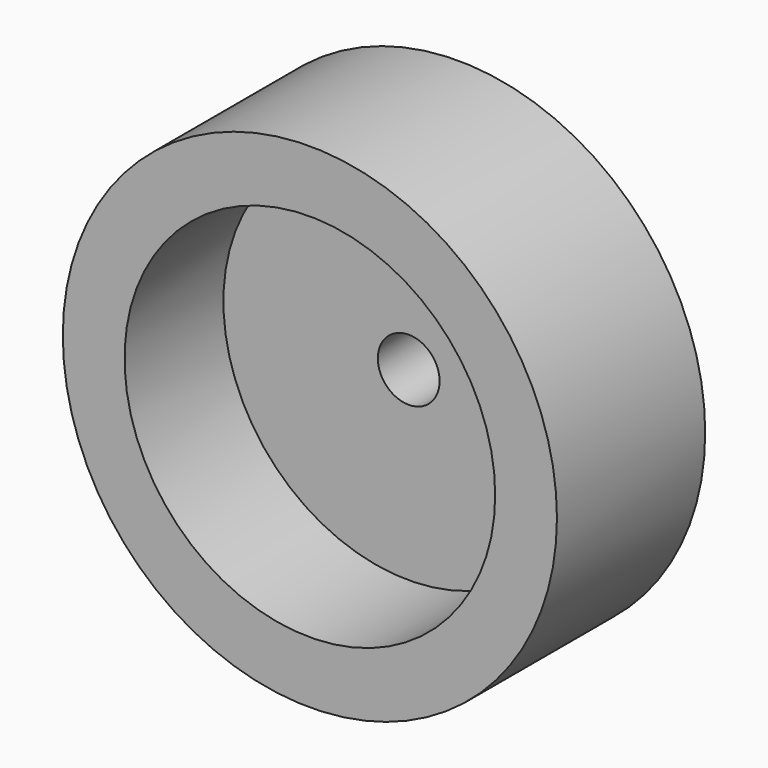
from build123d import *

# Parameters (mm, degrees)
F0_R     = 50.8
F1_DEPTH = 38.1
F2_T     = -12.7
F3_R     = 6.35
F4_DEPTH = 38.101


with BuildPart() as f1:
    # F0 (on Front) → F1 (new body)
    with BuildSketch(Plane.XZ):
        Circle(F0_R)
    extrude(amount=-F1_DEPTH)

    # F2
    f2_openings = [f1.faces().sort_by_distance(p)[0] for p in [
        (0, 0, 0),
    ]]
    offset(amount=F2_T, openings=f2_openings)

    # F3 (on Front) → F4 (cut, through all)
    with BuildSketch(Plane.XZ):
        Circle(F3_R)
    extrude(amount=-F4_DEPTH, mode=Mode.SUBTRACT)


solid = f1.part
